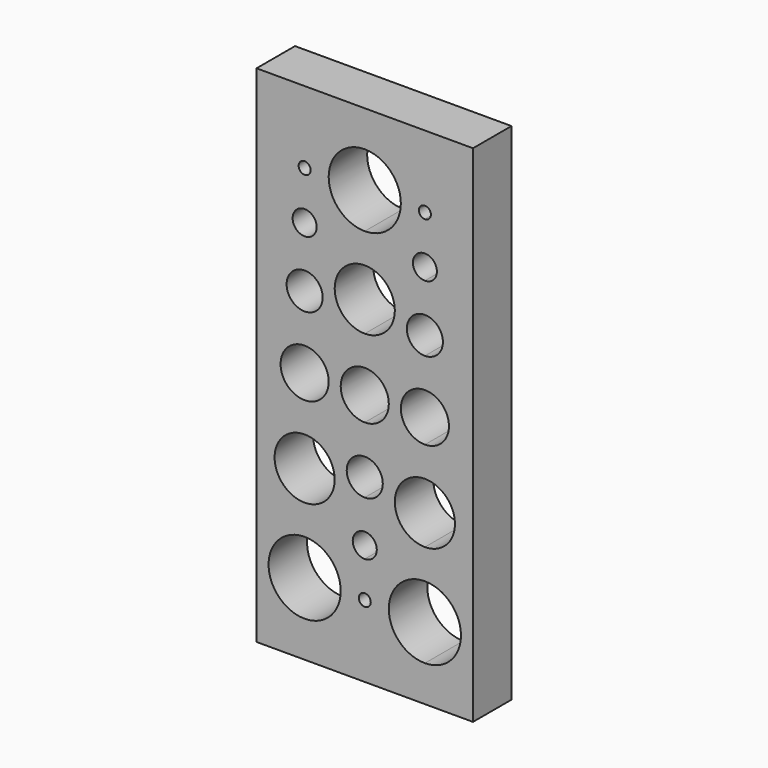
from build123d import *

# Parameters (mm, degrees)
F0_W     = 114.3
F0_H     = 266.7
F1_DEPTH = 25.4
F2_R     = 3.175
F2_R_2   = 6.35
F2_R_3   = 9.525
F2_R_4   = 12.7
F2_R_5   = 15.875
F2_R_6   = 19.05
F3_DEPTH = 25.4
F5_DEPTH = 25.4


with BuildPart() as f1:
    # F0 (on Front) → F1 (new body)
    with BuildSketch(Plane.XZ):
        with Locations((-57.15, 133.35)):
            Rectangle(F0_W, F0_H)
    extrude(amount=F1_DEPTH)

    # F2 (on face) → F3 (cut)
    with BuildSketch(Plane.XZ.offset(25.4)):
        with BuildLine():
            ThreePointArc((-25.4, 57.15), (-44.45, 38.1), (-25.4, 19.05))
            Line((-25.4, 19.05), (-25.4, 38.1))
            Line((-25.4, 38.1), (-25.4, 57.15))
        make_face()
        with BuildLine():
            ThreePointArc((-25.4, 231.775), (-28.575, 228.6), (-25.4, 225.425))
            Line((-25.4, 225.425), (-25.4, 228.6))
            Line((-25.4, 228.6), (-25.4, 231.775))
        make_face()
        with BuildLine():
            Line((-25.4, 228.6), (-25.4, 225.425))
            ThreePointArc((-25.4, 225.425), (-23.154936, 226.354936), (-22.225, 228.6))
            ThreePointArc((-22.225, 228.6), (-23.154936, 230.845064), (-25.4, 231.775))
            Line((-25.4, 231.775), (-25.4, 228.6))
        make_face()
        with BuildLine():
            ThreePointArc((-25.4, 209.55), (-31.75, 203.2), (-25.4, 196.85))
            Line((-25.4, 196.85), (-25.4, 203.2))
            Line((-25.4, 203.2), (-25.4, 209.55))
        make_face()
        with BuildLine():
            Line((-25.4, 203.2), (-25.4, 196.85))
            ThreePointArc((-25.4, 196.85), (-20.909872, 198.709872), (-19.05, 203.2))
            ThreePointArc((-19.05, 203.2), (-20.909872, 207.690128), (-25.4, 209.55))
            Line((-25.4, 209.55), (-25.4, 203.2))
        make_face()
        with BuildLine():
            ThreePointArc((-25.4, 180.975), (-34.925, 171.45), (-25.4, 161.925))
            Line((-25.4, 161.925), (-25.4, 171.45))
            Line((-25.4, 171.45), (-25.4, 180.975))
        make_face()
        with BuildLine():
            Line((-25.4, 171.45), (-25.4, 161.925))
            ThreePointArc((-25.4, 161.925), (-18.664808, 164.714808), (-15.875, 171.45))
            ThreePointArc((-15.875, 171.45), (-18.664808, 178.185192), (-25.4, 180.975))
            Line((-25.4, 180.975), (-25.4, 171.45))
        make_face()
        with BuildLine():
            ThreePointArc((-25.4, 146.05), (-38.1, 133.35), (-25.4, 120.65))
            Line((-25.4, 120.65), (-25.4, 133.35))
            Line((-25.4, 133.35), (-25.4, 146.05))
        make_face()
        with BuildLine():
            Line((-25.4, 133.35), (-25.4, 120.65))
            ThreePointArc((-25.4, 120.65), (-16.419744, 124.369744), (-12.7, 133.35))
            ThreePointArc((-12.7, 133.35), (-16.419744, 142.330256), (-25.4, 146.05))
            Line((-25.4, 146.05), (-25.4, 133.35))
        make_face()
        with BuildLine():
            ThreePointArc((-25.4, 104.775), (-41.275, 88.9), (-25.4, 73.025))
            Line((-25.4, 73.025), (-25.4, 88.9))
            Line((-25.4, 88.9), (-25.4, 104.775))
        make_face()
        with BuildLine():
            Line((-25.4, 88.9), (-25.4, 73.025))
            ThreePointArc((-25.4, 73.025), (-14.17468, 77.67468), (-9.525, 88.9))
            ThreePointArc((-9.525, 88.9), (-14.17468, 100.12532), (-25.4, 104.775))
            Line((-25.4, 104.775), (-25.4, 88.9))
        make_face()
        with BuildLine():
            Line((-25.4, 38.1), (-25.4, 19.05))
            ThreePointArc((-25.4, 19.05), (-11.929616, 24.629616), (-6.35, 38.1))
            ThreePointArc((-6.35, 38.1), (-11.929616, 51.570384), (-25.4, 57.15))
            Line((-25.4, 57.15), (-25.4, 38.1))
        make_face()
        with Locations((-88.9, 228.6)):
            Circle(F2_R)
        with Locations((-88.9, 203.2)):
            Circle(F2_R_2)
        with Locations((-88.9, 171.45)):
            Circle(F2_R_3)
        with Locations((-88.9, 133.35)):
            Circle(F2_R_4)
        with Locations((-88.9, 88.9)):
            Circle(F2_R_5)
        with Locations((-88.9, 38.1)):
            Circle(F2_R_6)
    extrude(amount=-F3_DEPTH, mode=Mode.SUBTRACT)

    # F4 (on face) → F5 (cut)
    with BuildSketch(Plane.XZ.offset(25.4)):
        with BuildLine():
            ThreePointArc((-57.15, 247.65), (-76.2, 228.6), (-57.15, 209.55))
            Line((-57.15, 209.55), (-57.15, 228.6))
            Line((-57.15, 228.6), (-57.15, 247.65))
        make_face()
        with BuildLine():
            Line((-57.15, 228.6), (-57.15, 209.55))
            ThreePointArc((-57.15, 209.55), (-43.679616, 215.129616), (-38.1, 228.6))
            ThreePointArc((-38.1, 228.6), (-43.679616, 242.070384), (-57.15, 247.65))
            Line((-57.15, 247.65), (-57.15, 228.6))
        make_face()
        with BuildLine():
            ThreePointArc((-57.15, 193.675), (-73.025, 177.8), (-57.15, 161.925))
            Line((-57.15, 161.925), (-57.15, 177.8))
            Line((-57.15, 177.8), (-57.15, 193.675))
        make_face()
        with BuildLine():
            Line((-57.15, 177.8), (-57.15, 161.925))
            ThreePointArc((-57.15, 161.925), (-45.92468, 166.57468), (-41.275, 177.8))
            ThreePointArc((-41.275, 177.8), (-45.92468, 189.02532), (-57.15, 193.675))
            Line((-57.15, 193.675), (-57.15, 177.8))
        make_face()
        with BuildLine():
            ThreePointArc((-57.15, 146.05), (-69.85, 133.35), (-57.15, 120.65))
            Line((-57.15, 120.65), (-57.15, 133.35))
            Line((-57.15, 133.35), (-57.15, 146.05))
        make_face()
        with BuildLine():
            Line((-57.15, 133.35), (-57.15, 120.65))
            ThreePointArc((-57.15, 120.65), (-48.169744, 124.369744), (-44.45, 133.35))
            ThreePointArc((-44.45, 133.35), (-48.169744, 142.330256), (-57.15, 146.05))
            Line((-57.15, 146.05), (-57.15, 133.35))
        make_face()
        with BuildLine():
            ThreePointArc((-57.15, 104.775), (-66.675, 95.25), (-57.15, 85.725))
            Line((-57.15, 85.725), (-57.15, 95.25))
            Line((-57.15, 95.25), (-57.15, 104.775))
        make_face()
        with BuildLine():
            Line((-57.15, 95.25), (-57.15, 85.725))
            ThreePointArc((-57.15, 85.725), (-50.414808, 88.514808), (-47.625, 95.25))
            ThreePointArc((-47.625, 95.25), (-50.414808, 101.985192), (-57.15, 104.775))
            Line((-57.15, 104.775), (-57.15, 95.25))
        make_face()
        with BuildLine():
            ThreePointArc((-57.15, 69.85), (-63.5, 63.5), (-57.15, 57.15))
            Line((-57.15, 57.15), (-57.15, 63.5))
            Line((-57.15, 63.5), (-57.15, 69.85))
        make_face()
        with BuildLine():
            Line((-57.15, 63.5), (-57.15, 57.15))
            ThreePointArc((-57.15, 57.15), (-52.659872, 59.009872), (-50.8, 63.5))
            ThreePointArc((-50.8, 63.5), (-52.659872, 67.990128), (-57.15, 69.85))
            Line((-57.15, 69.85), (-57.15, 63.5))
        make_face()
        with BuildLine():
            ThreePointArc((-53.975, 38.1), (-54.904936, 40.345064), (-57.15, 41.275))
            ThreePointArc((-57.15, 41.275), (-59.395064, 35.854936), (-53.975, 38.1))
        make_face()
    extrude(amount=-F5_DEPTH, mode=Mode.SUBTRACT)


solid = f1.part
